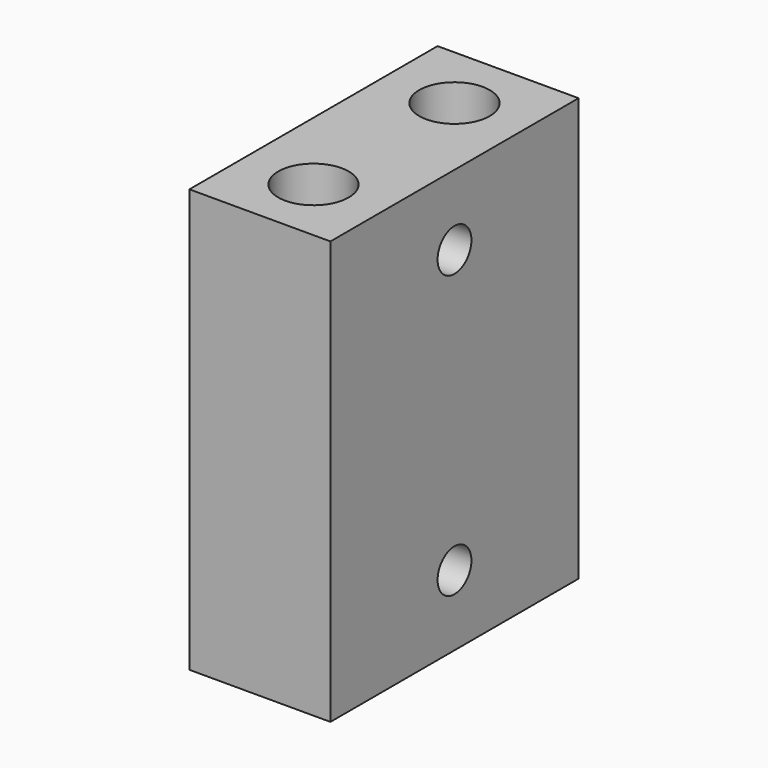
from build123d import *

# Parameters (mm, degrees)
F0_W     = 20
F0_H     = 44
F0_R     = 5
F1_DEPTH = 60
F2_R     = 3
F3_DEPTH = 10


with BuildPart() as f1:
    # F0 (on Top) → F1 (new body)
    with BuildSketch(Plane.XY):
        Rectangle(F0_W, F0_H)
        with Locations((0, -12.5)):
            Circle(F0_R, mode=Mode.SUBTRACT)
        with Locations((0, 12.5)):
            Circle(F0_R, mode=Mode.SUBTRACT)
    extrude(amount=F1_DEPTH)

    # F2 (on face) → F3 (cut)
    with BuildSketch(Plane.YZ.offset(10)):
        with Locations((0, 50)):
            Circle(F2_R)
        with Locations((0, 10)):
            Circle(F2_R)
    extrude(amount=-F3_DEPTH, mode=Mode.SUBTRACT)


solid = f1.part
